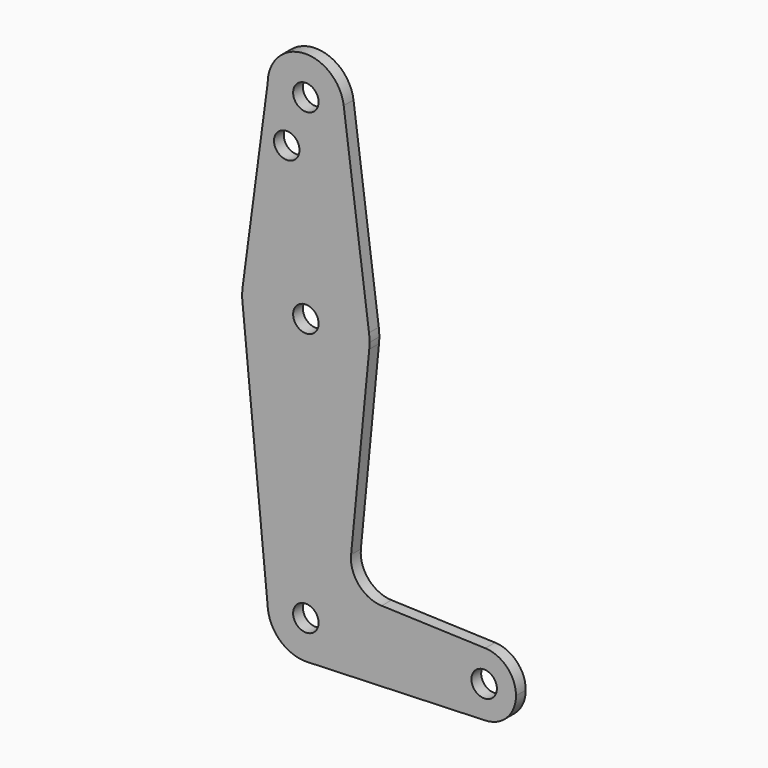
from build123d import *

# Parameters (mm, degrees)
F0_R     = 3.175
F1_DEPTH = 3.048


with BuildPart() as f1:
    # F0 (on Front) → F1 (new body)
    with BuildSketch(Plane.XZ):
        with BuildLine():
            ThreePointArc((-9.525, 114.3), (0, 104.775), (9.525, 114.3))
            ThreePointArc((9.525, 114.3), (9.504605, 114.922987), (9.443506, 115.543306))
            ThreePointArc((9.443506, 115.543306), (-0.622987, 123.804605), (-9.525, 114.3))
        make_face()
        with Locations((0, 114.3)):
            Circle(F0_R, mode=Mode.SUBTRACT)
        with BuildLine():
            ThreePointArc((9.443506, 115.543306), (9.504605, 114.922987), (9.525, 114.3))
            ThreePointArc((9.525, 114.3), (0, 104.775), (-9.525, 114.3))
            Line((-9.525, 114.3), (-15.735559, 67.751978))
            ThreePointArc((-15.735559, 67.751978), (0.01377, 81.527493), (15.739177, 67.724676))
            Line((15.739177, 67.724676), (9.443506, 115.543306))
        make_face()
        with Locations((-4.7625, 102.177699)):
            Circle(F0_R, mode=Mode.SUBTRACT)
        with BuildLine():
            ThreePointArc((15.875, 65.652499), (15.841008, 66.690811), (15.739177, 67.724676))
            ThreePointArc((15.739177, 67.724676), (0.01377, 81.527493), (-15.735559, 67.751978))
            Line((-15.735559, 67.751978), (-15.735559, 63.553019))
            ThreePointArc((-15.735559, 63.553019), (0.283881, 49.780037), (15.80057, 64.117047))
            ThreePointArc((15.80057, 64.117047), (15.856382, 64.883871), (15.875, 65.652499))
        make_face()
        with Locations((0, 65.652499)):
            Circle(F0_R, mode=Mode.SUBTRACT)
        with BuildLine():
            Line((-15.735559, 63.553019), (-15.735559, 67.751978))
            ThreePointArc((-15.735559, 67.751978), (-15.875, 65.652499), (-15.735559, 63.553019))
        make_face()
        with BuildLine():
            ThreePointArc((15.80057, 64.117047), (0.283881, 49.780037), (-15.735559, 63.553019))
            Line((-15.735559, 63.553019), (-9.480486, -0.919785))
            ThreePointArc((-9.480486, -0.919785), (-0.460431, 9.513865), (9.525, 0))
            ThreePointArc((9.525, 0), (6.854408, -6.613827), (0.340179, -9.518923))
            Line((0.340179, -9.518923), (44.733482, -7.932436))
            ThreePointArc((44.733482, -7.932436), (36.5125, 0), (44.733482, 7.932436))
            Line((44.733482, 7.932436), (18.90621, 8.855428))
            ThreePointArc((18.90621, 8.855428), (13.208429, 11.563692), (11.27722, 17.56951))
            Line((11.27722, 17.56951), (15.80057, 64.117047))
        make_face()
        with BuildLine():
            ThreePointArc((9.525, 0), (-0.460431, 9.513865), (-9.480486, -0.919785))
            ThreePointArc((-9.480486, -0.919785), (-6.274759, -7.166102), (0.340179, -9.518923))
            ThreePointArc((0.340179, -9.518923), (6.854408, -6.613827), (9.525, 0))
        make_face()
        Circle(F0_R, mode=Mode.SUBTRACT)
        with BuildLine():
            ThreePointArc((44.733482, 7.932436), (36.5125, 0), (44.733482, -7.932436))
            ThreePointArc((44.733482, -7.932436), (50.162007, -5.511523), (52.3875, 0))
            ThreePointArc((52.3875, 0), (50.162007, 5.511523), (44.733482, 7.932436))
        make_face()
        with Locations((44.45, 0)):
            Circle(F0_R, mode=Mode.SUBTRACT)
    extrude(amount=F1_DEPTH)


solid = f1.part
